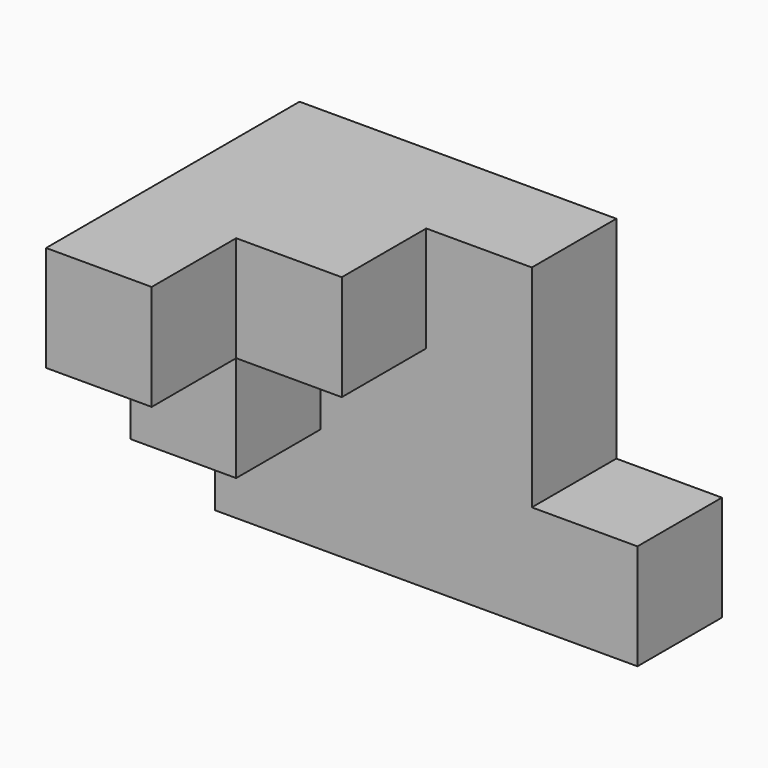
from build123d import *

# Parameters (mm, degrees)
F0_W     = 101.6
F0_H     = 76.2
F1_DEPTH = 25.4
F2_W     = 25.4
F2_H     = 50.8
F3_DEPTH = 25.4
F4_W     = 50.8
F4_H     = 50.8
F5_DEPTH = 25.4
F6_W     = 25.4
F6_H     = 25.4
F7_DEPTH = 25.4
F8_W     = 25.4
F8_H     = 25.4
F9_DEPTH = 25.4


with BuildPart() as f1:
    # F0 (on Front) → F1 (new body)
    with BuildSketch(Plane.XZ):
        with Locations((50.8, 38.1)):
            Rectangle(F0_W, F0_H)
    extrude(amount=F1_DEPTH)

    # F2 (on face) → F3 (cut)
    with BuildSketch(Plane.XZ.offset(25.4)):
        with Locations((88.9, 50.8)):
            Rectangle(F2_W, F2_H)
    extrude(amount=-F3_DEPTH, mode=Mode.SUBTRACT)

    # F4 (on face) → F5 (join)
    with BuildSketch(Plane.XZ.offset(25.4)):
        with Locations((25.4, 50.8)):
            Rectangle(F4_W, F4_H)
    extrude(amount=F5_DEPTH)

    # F6 (on face) → F7 (cut)
    with BuildSketch(Plane.XZ.offset(50.8)):
        with Locations((38.1, 38.1)):
            Rectangle(F6_W, F6_H)
    extrude(amount=-F7_DEPTH, mode=Mode.SUBTRACT)

    # F8 (on face) → F9 (join)
    with BuildSketch(Plane.XZ.offset(50.8)):
        with Locations((12.7, 63.5)):
            Rectangle(F8_W, F8_H)
    extrude(amount=F9_DEPTH)


solid = f1.part
